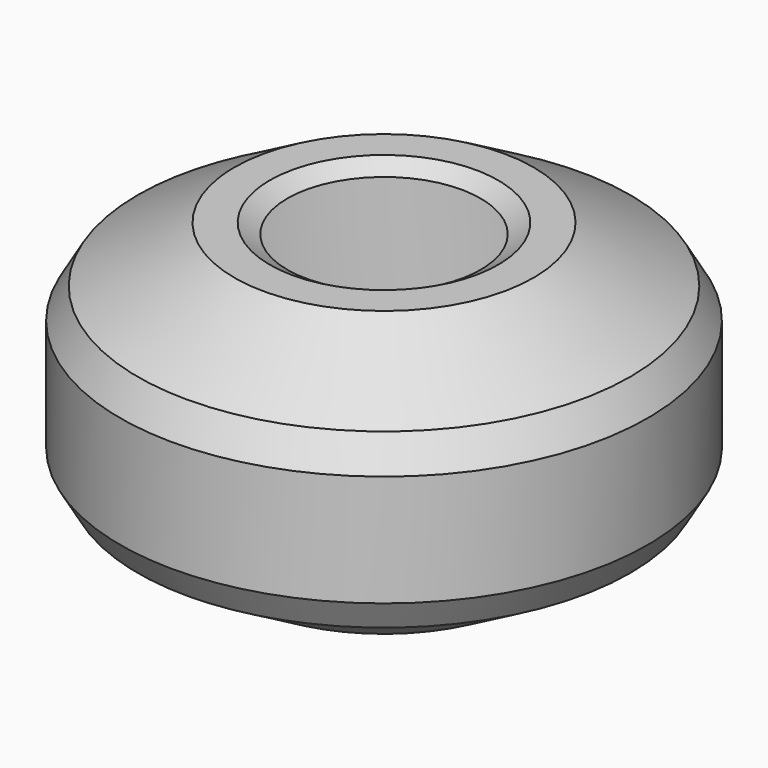
from build123d import *

# Parameters (mm, degrees)
F2_SIZE = 5.08
F3_T    = -2.54


with BuildPart() as f1:
    # F0 (on Front) → F1 (revolve)
    with BuildSketch(Plane.XZ):
        Polygon((32.889415, -18.988712), (32.889415, 18.988712), (16.444707, -9.494356), align=None)
        Polygon((16.444707, -9.494356), (32.889415, 18.988712), (0, 18.988712), (0, 0), align=None)
        Polygon((0, -37.977425), (16.444707, -9.494356), (0, 0), (-16.444707, -9.494356), align=None)
        Polygon((0, 18.988712), (32.889415, 18.988712), (0, 37.977425), align=None)
        Polygon((0, 18.988712), (0, 37.977425), (-32.889415, 18.988712), align=None)
        Polygon((-32.889415, -18.988712), (0, -37.977425), (-16.444707, -9.494356), align=None)
        Polygon((0, 0), (0, 18.988712), (-32.889415, 18.988712), (-16.444707, -9.494356), align=None)
        Polygon((-16.444707, -9.494356), (-32.889415, 18.988712), (-32.889415, -18.988712), align=None)
        Polygon((0, -37.977425), (32.889415, -18.988712), (16.444707, -9.494356), align=None)
    revolve(axis=Axis((32.889415, 0, 0), (0, 0, -1)))

    # F2
    f2_edges = [f1.edges().sort_by_distance(p)[0] for p in [
        (65.778829, 0, 37.977425),
        (98.668244, 0, 18.988712),
        (-16.444707, 0, 28.483069),
        (98.668244, 0, -18.988712),
        (65.778829, 0, -37.977425),
        (-16.444707, 0, -28.483069),
        (16.444707, 0, -28.483069),
    ]]
    chamfer(f2_edges, length=F2_SIZE)

    # F3
    f3_openings = [f1.faces().sort_by_distance(p)[0] for p in [
        (47.134417, 0, 27.213069),
        (47.134417, 0, -27.213069),
    ]]
    offset(amount=F3_T, openings=f3_openings, kind=Kind.INTERSECTION)


solid = f1.part
